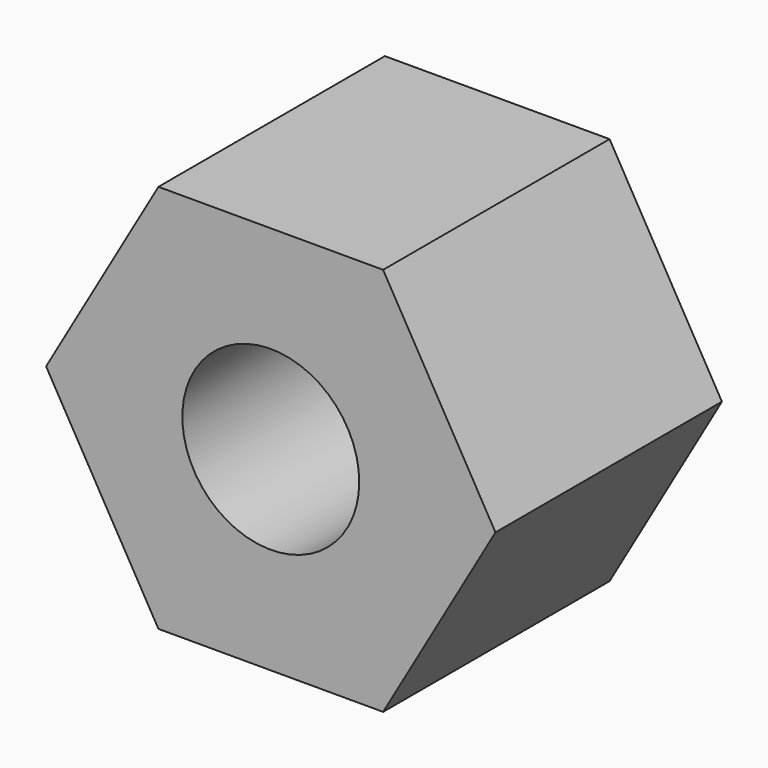
from build123d import *

# Parameters (mm, degrees)
SKETCH_R  = 1.25
PAD_DEPTH = 4


with BuildPart() as part:
    # Sketch → Pad (new body)
    with BuildSketch(Plane.XZ):
        Polygon((-1.587713, -2.75), (1.587713, -2.75), (3.175426, 0), (1.587713, 2.75), (-1.587713, 2.75), (-3.175426, 0), align=None)
        Circle(SKETCH_R, mode=Mode.SUBTRACT)
    extrude(amount=PAD_DEPTH)


solid = part.part
